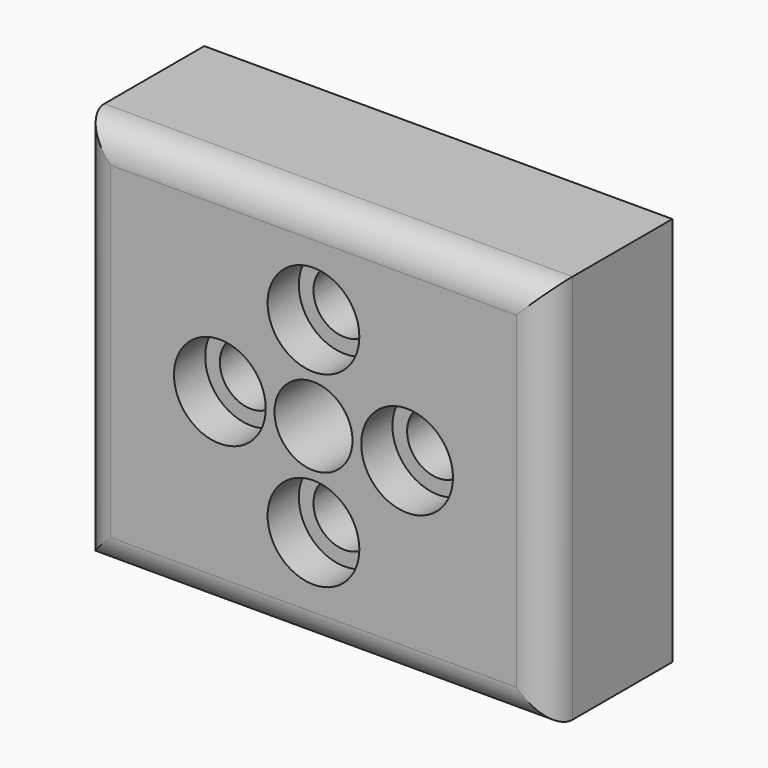
from build123d import *

# Parameters (mm, degrees)
F0_W     = 76.2
F0_H     = 63.5
F0_R     = 5.08
F0_R_2   = 6.35
F1_DEPTH = 25.4
F2_R     = 5.08
F3_R     = 7.4676
F3_R_2   = 5.08
F4_DEPTH = 6.35


with BuildPart() as f1:
    # F0 (on Front) → F1 (new body)
    with BuildSketch(Plane.XZ):
        Rectangle(F0_W, F0_H)
        with Locations((0, -15.24)):
            Circle(F0_R, mode=Mode.SUBTRACT)
        with Locations((-15.24, 0)):
            Circle(F0_R, mode=Mode.SUBTRACT)
        Circle(F0_R_2, mode=Mode.SUBTRACT)
        with Locations((15.24, 0)):
            Circle(F0_R, mode=Mode.SUBTRACT)
        with Locations((0, 15.24)):
            Circle(F0_R, mode=Mode.SUBTRACT)
    extrude(amount=F1_DEPTH)

    # F2
    f2_edges = [f1.edges().sort_by_distance(p)[0] for p in [
        (0, -25.4, 31.75),
        (-38.1, -25.4, 0),
        (0, -25.4, -31.75),
        (38.1, -25.4, 0),
    ]]
    fillet(f2_edges, radius=F2_R)

    # F3 (on face) → F4 (cut)
    with BuildSketch(Plane.XZ.offset(25.4)):
        with Locations((-15.24, 0)):
            Circle(F3_R)
        with Locations((0, 15.24)):
            Circle(F3_R)
        with Locations((15.24, 0)):
            Circle(F3_R)
        with Locations((0, -15.24)):
            Circle(F3_R)
        with Locations((0, -15.24)):
            Circle(F3_R_2)
        with Locations((-15.24, 0)):
            Circle(F3_R_2)
        with Locations((0, 15.24)):
            Circle(F3_R_2)
        with Locations((15.24, 0)):
            Circle(F3_R_2)
    extrude(amount=-F4_DEPTH, mode=Mode.SUBTRACT)


solid = f1.part
